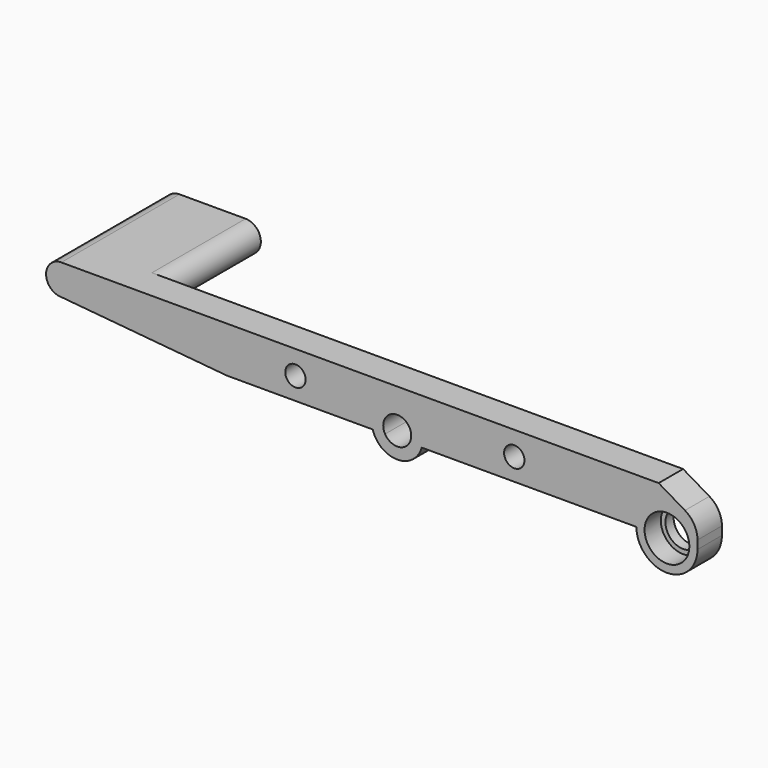
from build123d import *

# Parameters (mm, degrees)
F0_R     = 2
F1_DEPTH = 6
F2_R     = 3.5
F2_R_2   = 2.75
F3_DEPTH = 1
F4_R     = 4.4
F5_DEPTH = 4
F6_W     = 13
F6_H     = 6
F7_DEPTH = 23
F9_DEPTH = 10


with BuildPart() as f1:
    # F0 (on Front) → F1 (new body)
    with BuildSketch(Plane.XZ):
        with BuildLine():
            Line((0, 3), (32.554146, 0))
            Line((32.554146, 0), (61.188469, 0))
            Line((61.188469, 0), (63.609742, 0))
            ThreePointArc((63.609742, 0), (65.29669, 4.018384), (68.75, 1.359841))
            ThreePointArc((68.75, 1.359841), (68.658544, 0.65653), (68.390258, 0))
            Line((68.390258, 0), (70.811531, 0))
            Line((70.811531, 0), (113, 0))
            Line((113, 0), (115.5, 0))
            ThreePointArc((115.5, 0), (119, 3.5), (122.5, 0))
            Line((122.5, 0), (125, 0))
            Line((125, 0), (125, 1.644468))
            ThreePointArc((125, 1.644468), (124.341818, 4.124108), (122.540554, 5.950927))
            Line((122.540554, 5.950927), (117.372112, 9))
            Line((117.372112, 9), (0, 9))
            Line((0, 9), (0, 3))
        make_face()
        with Locations((46, 4.333029)):
            Circle(F0_R, mode=Mode.SUBTRACT)
        with Locations((89, 4.333029)):
            Circle(F0_R, mode=Mode.SUBTRACT)
        with BuildLine():
            Line((63.609742, 0), (61.188469, 0))
            ThreePointArc((61.188469, 0), (66, -3.640159), (70.811531, 0))
            Line((70.811531, 0), (68.390258, 0))
            ThreePointArc((68.390258, 0), (66, -1.390159), (63.609742, 0))
        make_face()
        with BuildLine():
            ThreePointArc((0, 9), (-3, 6), (0, 3))
            Line((0, 3), (0, 9))
        make_face()
        with BuildLine():
            Line((115.5, 0), (113, 0))
            ThreePointArc((113, 0), (119, -6), (125, 0))
            Line((125, 0), (122.5, 0))
            ThreePointArc((122.5, 0), (119, -3.5), (115.5, 0))
        make_face()
    extrude(amount=F1_DEPTH)

    # F2 (on face) → F3 (join)
    with BuildSketch(Plane(origin=(0, 0, 0), x_dir=(-1, 0, 0), z_dir=(0, 1, 0))):
        with Locations((-66, 1.359841)):
            Circle(F2_R)
        with Locations((-66, 1.359841)):
            Circle(F2_R_2, mode=Mode.SUBTRACT)
    extrude(amount=F3_DEPTH)

    # F4 (on face) → F5 (cut)
    with BuildSketch(Plane.XZ.offset(6)):
        with Locations((119, 0)):
            Circle(F4_R)
    extrude(amount=-F5_DEPTH, mode=Mode.SUBTRACT)

    # F6 (on face) → F7 (join)
    with BuildSketch(Plane(origin=(0, 0, 0), x_dir=(-1, 0, 0), z_dir=(0, 1, 0))):
        with BuildLine():
            Line((0, 9), (0, 3))
            ThreePointArc((0, 3), (3, 6), (0, 9))
        make_face()
        with Locations((-6.5, 6)):
            Rectangle(F6_W, F6_H)
        with BuildLine():
            ThreePointArc((-13, 9), (-16, 6), (-13, 3))
            Line((-13, 3), (-13, 9))
        make_face()
    extrude(amount=F7_DEPTH)

    # F8 (on face) → F9 (cut)
    with BuildSketch(Plane(origin=(0, 23, 0), x_dir=(-1, 0, 0), z_dir=(0, 1, 0))):
        with BuildLine():
            Line((0, 8), (-13, 8))
            ThreePointArc((-13, 8), (-15, 6), (-13, 4))
            Line((-13, 4), (0, 4))
            ThreePointArc((0, 4), (2, 6), (0, 8))
        make_face()
    extrude(amount=-F9_DEPTH, mode=Mode.SUBTRACT)


solid = f1.part
